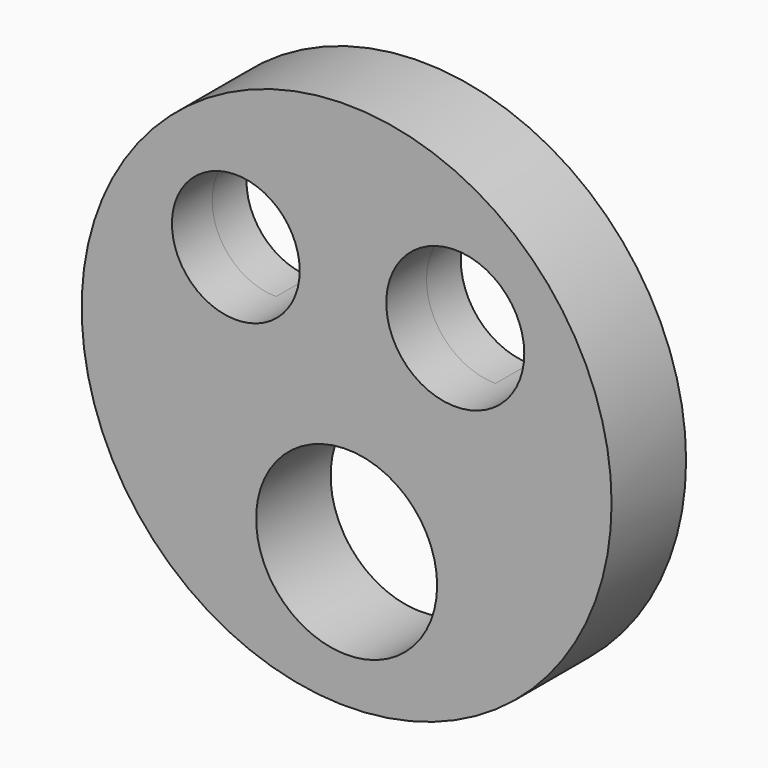
from build123d import *

# Parameters (mm, degrees)
F0_R        = 72.275497
F0_R_2      = 24.688435
F0_R_3      = 17.422827
F0_R_4      = 18.818054
F1_DEPTH    = 25.4
F1_FACE_R   = 72.275497
F1_FACE_R_2 = 24.688435
F1_FACE_R_3 = 17.422827
F1_FACE_R_4 = 18.818054
F2_DEPTH    = 11.684


with BuildPart() as f1:
    # F0 (on Front) → F1 (new body)
    with BuildSketch(Plane.XZ):
        Circle(F0_R)
        with Locations((0, -35.186879)):
            Circle(F0_R_2, mode=Mode.SUBTRACT)
        with Locations((-30.222757, 28.178705)):
            Circle(F0_R_3, mode=Mode.SUBTRACT)
        with Locations((29.638739, 28.178705)):
            Circle(F0_R_4, mode=Mode.SUBTRACT)
    extrude(amount=F1_DEPTH)

    # F1_face (on face) → F2 (join)
    with BuildSketch(Plane(origin=(-0.333972, 0, 0.736667), x_dir=(1, 0, 0), z_dir=(0, 1, 0))):
        with Locations((0.333972, 0.736667)):
            Circle(F1_FACE_R)
        with Locations((0.333972, 35.923546)):
            Circle(F1_FACE_R_2, mode=Mode.SUBTRACT)
        with Locations((-29.888784, -27.442038)):
            Circle(F1_FACE_R_3, mode=Mode.SUBTRACT)
        with Locations((29.972712, -27.442038)):
            Circle(F1_FACE_R_4, mode=Mode.SUBTRACT)
    extrude(amount=-F2_DEPTH)


solid = f1.part
